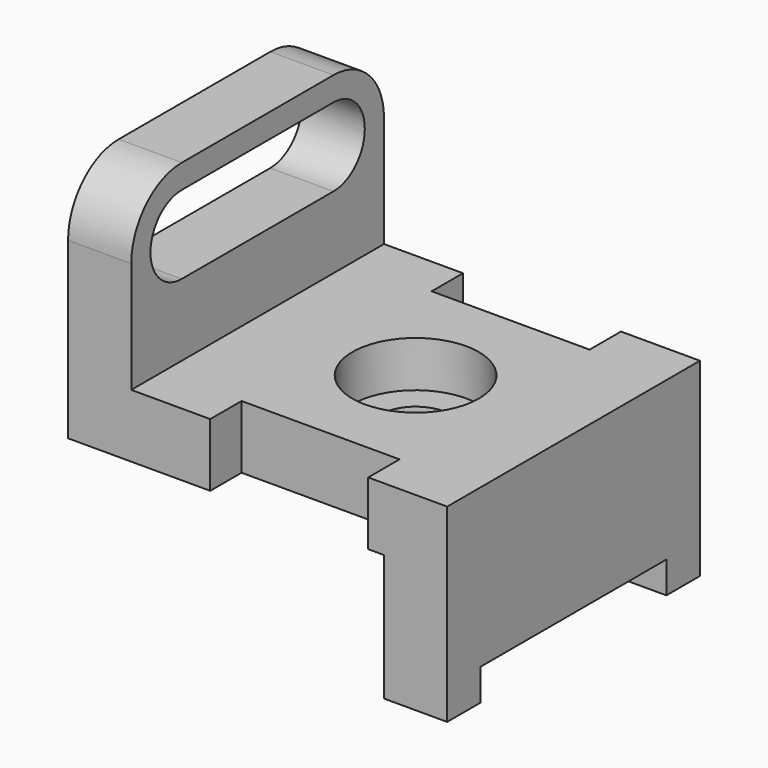
from build123d import *

# Parameters (mm, degrees)
F1_DEPTH = 12.7
F2_DEPTH = 76.2
F3_R     = 12.7
F3_R_2   = 7.112
F4_DEPTH = 9.2456
F5_DEPTH = 38.101
F3_W     = 31.75
F3_H     = 7.874
F6_DEPTH = 38.101
F7_W     = 63.5
F7_H     = 25.4
F8_DEPTH = 63.501


with BuildPart() as f1:
    # F0 (on Right) → F1 (new body)
    with BuildSketch(Plane.YZ):
        with BuildLine():
            Line((0, 60.452), (0, 38.1))
            Line((0, 38.1), (63.5, 38.1))
            Line((63.5, 38.1), (63.5, 60.452))
            ThreePointArc((63.5, 60.452), (59.780256, 69.432256), (50.8, 73.152))
            Line((50.8, 73.152), (12.7, 73.152))
            ThreePointArc((12.7, 73.152), (3.719744, 69.432256), (0, 60.452))
        make_face()
        with BuildLine():
            ThreePointArc((12.7, 52.578), (4.826, 60.452), (12.7, 68.326))
            Line((12.7, 68.326), (50.8, 68.326))
            ThreePointArc((50.8, 68.326), (58.674, 60.452), (50.8, 52.578))
            Line((50.8, 52.578), (12.7, 52.578))
        make_face(mode=Mode.SUBTRACT)
    extrude(amount=F1_DEPTH)

    # F0 (on Right) → F2 (join)
    with BuildSketch(Plane.YZ):
        Polygon((0, 38.1), (0, 0), (8.423471, 0), (8.423471, 6.35), (55.076529, 6.35), (55.076529, 0), (63.5, 0), (63.5, 38.1), align=None)
    extrude(amount=F2_DEPTH)

    # F3 (on face) → F4 (cut)
    with BuildSketch(Plane.XY.offset(38.1)):
        with Locations((44.45, 31.75)):
            Circle(F3_R)
        with Locations((44.45, 31.75)):
            Circle(F3_R_2, mode=Mode.SUBTRACT)
    extrude(amount=-F4_DEPTH, mode=Mode.SUBTRACT)

    # F3 (on face) → F5 (cut, through all)
    with BuildSketch(Plane.XY.offset(38.1)):
        with Locations((44.45, 31.75)):
            Circle(F3_R_2)
    extrude(amount=-F5_DEPTH, mode=Mode.SUBTRACT)

    # F3 (on face) → F6 (cut, through all)
    with BuildSketch(Plane.XY.offset(38.1)):
        with Locations((44.45, 59.563)):
            Rectangle(F3_W, F3_H)
        with Locations((44.45, 3.937)):
            Rectangle(F3_W, F3_H)
    extrude(amount=-F6_DEPTH, mode=Mode.SUBTRACT)

    # F7 (on face) → F8 (cut, through all)
    with BuildSketch(Plane.XZ):
        with Locations((31.75, 12.7)):
            Rectangle(F7_W, F7_H)
    extrude(amount=-F8_DEPTH, mode=Mode.SUBTRACT)


solid = f1.part
